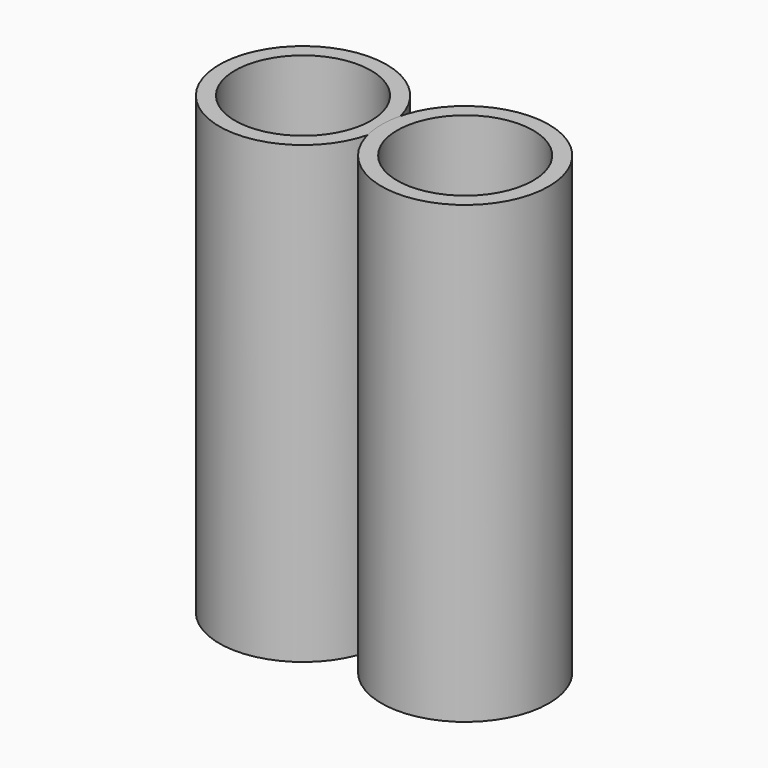
from build123d import *

# Parameters (mm, degrees)
F0_R     = 8
F1_DEPTH = 43.5
F2_T     = -1.5


with BuildPart() as f1:
    # F0 (on Top) → F1 (new body)
    with BuildSketch(Plane.XY):
        Circle(F0_R)
    extrude(amount=F1_DEPTH)

    # F2
    f2_openings = [f1.faces().sort_by_distance(p)[0] for p in [
        (0, 0, 43.5),
    ]]
    offset(amount=F2_T, openings=f2_openings)


with BuildPart() as f3_1:
    # F3: copy of F1
    add(f1.part.moved(Location((15.5, 0, 0))))


solid = Compound([f1.part, f3_1.part])
